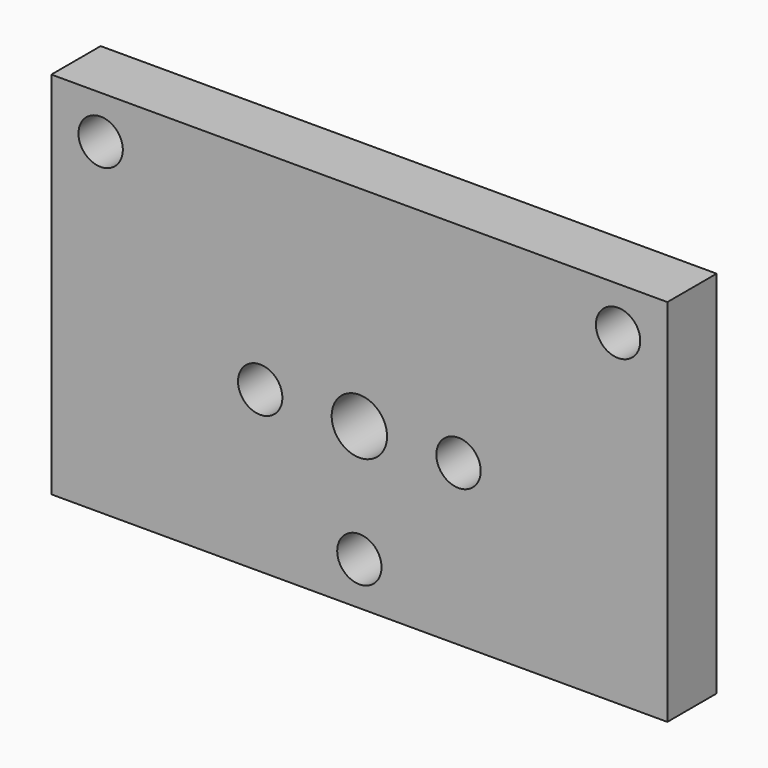
from build123d import *

# Parameters (mm, degrees)
F0_W     = 50
F0_H     = 30
F1_DEPTH = 5
F2_R     = 1.8
F3_DEPTH = 5.001
F4_R     = 1.8
F4_R_2   = 2.25
F5_DEPTH = 5.001
F6_R     = 1.8
F7_DEPTH = 5.001


with BuildPart() as f1:
    # F0 (on Front) → F1 (new body)
    with BuildSketch(Plane.XZ):
        Rectangle(F0_W, F0_H)
    extrude(amount=F1_DEPTH)

    # F2 (on face) → F3 (cut, through all)
    with BuildSketch(Plane(origin=(0, 0, 0), x_dir=(-1, 0, 0), z_dir=(0, 1, 0))):
        with Locations((0, -11.5)):
            Circle(F2_R)
    extrude(amount=-F3_DEPTH, mode=Mode.SUBTRACT)

    # F4 (on face) → F5 (cut, through all)
    with BuildSketch(Plane(origin=(0, 0, 0), x_dir=(-1, 0, 0), z_dir=(0, 1, 0))):
        with Locations((8.048, -2)):
            Circle(F4_R)
        with Locations((0, -2)):
            Circle(F4_R_2)
        with Locations((-8.048, -2)):
            Circle(F4_R)
    extrude(amount=-F5_DEPTH, mode=Mode.SUBTRACT)

    # F6 (on face) → F7 (cut, through all)
    with BuildSketch(Plane(origin=(0, 0, 0), x_dir=(-1, 0, 0), z_dir=(0, 1, 0))):
        with Locations((-21, 11.5)):
            Circle(F6_R)
        with Locations((21, 11.5)):
            Circle(F6_R)
    extrude(amount=-F7_DEPTH, mode=Mode.SUBTRACT)


solid = f1.part
